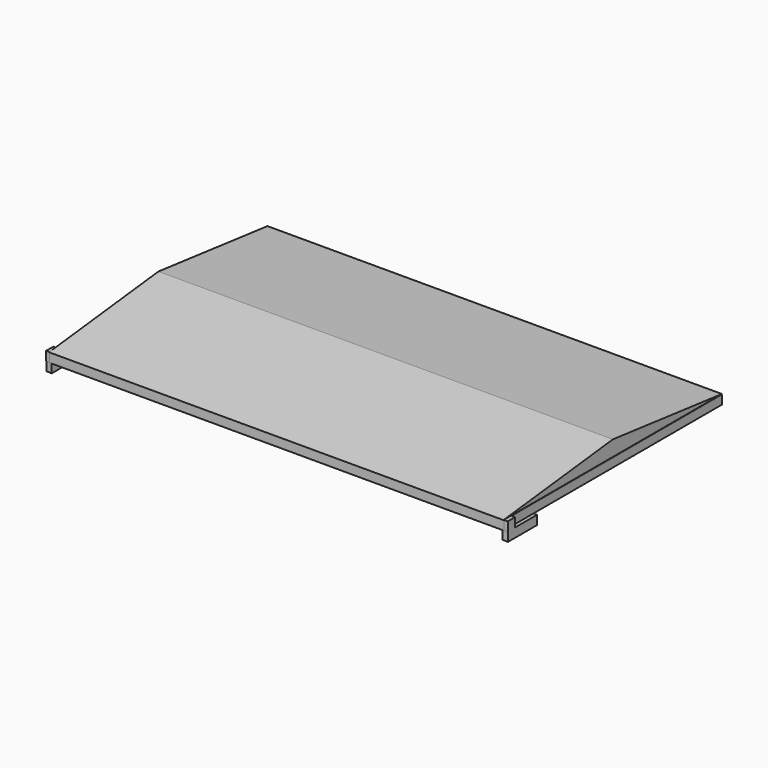
from build123d import *

# Parameters (mm, degrees)
F0_W     = 2450
F0_H     = 1450
F1_DEPTH = 50
F2_T     = -25.4
F0_W_2   = 2500
F0_H_2   = 1500
F3_DEPTH = 50
F5_DEPTH = 1250
F7_START = -1240
F7_DEPTH = 30
F8_START = 1240
F8_DEPTH = 30


with BuildPart() as f1:
    # F0 (on Top) → F1 (new body)
    with BuildSketch(Plane.XY):
        Rectangle(F0_W, F0_H)
    extrude(amount=F1_DEPTH)

    # F2
    f2_openings = [f1.faces().sort_by_distance(p)[0] for p in [
        (0, 0, 50),
    ]]
    offset(amount=F2_T, openings=f2_openings)

    # F0 (on Top) → F3 (join)
    with BuildSketch(Plane.XY):
        Rectangle(F0_W_2, F0_H_2)
        Rectangle(F0_W, F0_H, mode=Mode.SUBTRACT)
    extrude(amount=F3_DEPTH)

    # F6 (on Right) → F7 (join)
    with BuildSketch(Plane.YZ.offset(F7_START)):
        Polygon((-747.49147892, 0), (-746.0243114761, 0), (-697.49147892, 0), (-697.49147892, 50), (-747.49147892, 50), align=None)
        Polygon((-697.49147892, 0), (-746.0243114761, 0), (-746.0243114761, -50), (-546.0243114761, -50), (-546.0243114761, 0), align=None)
    extrude(amount=-F7_DEPTH)

    # F6 (on Right) → F8 (join)
    with BuildSketch(Plane.YZ.offset(F8_START)):
        Polygon((-747.49147892, 0), (-746.0243114761, 0), (-697.49147892, 0), (-697.49147892, 50), (-747.49147892, 50), align=None)
        Polygon((-697.49147892, 0), (-746.0243114761, 0), (-746.0243114761, -50), (-546.0243114761, -50), (-546.0243114761, 0), align=None)
    extrude(amount=F8_DEPTH)


with BuildPart() as f5:
    # F4 (on Right) → F5 (new body, symmetric)
    with BuildSketch(Plane.YZ):
        Polygon((0, 136.8924013236), (-750, 51.7572501741), (750, 51.7572501741), align=None)
    extrude(amount=F5_DEPTH, both=True)


solid = Compound([f1.part, f5.part])
